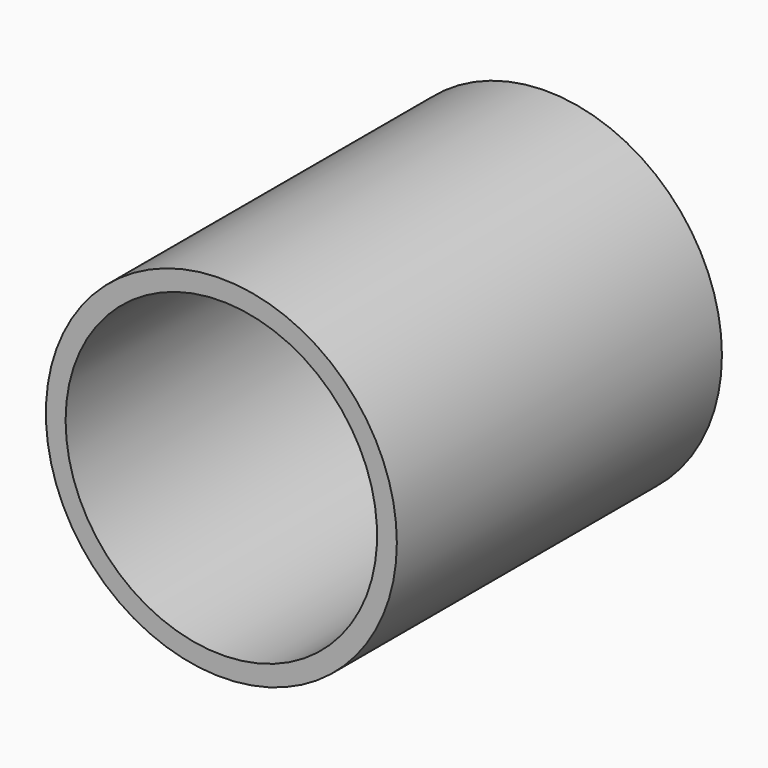
from build123d import *

# Parameters (mm, degrees)
F0_R     = 32.909894
F2_DEPTH = 76.2
F3_D     = 58.42
F4_R     = 30.278142
F5_DEPTH = 6.35


with BuildPart() as f2:
    # F0 (on Front) → F2 (new body)
    with BuildSketch(Plane.XZ):
        Circle(F0_R)
    extrude(amount=F2_DEPTH)

    # F3 (through all)
    with Locations(Plane(origin=(0, 0, 0), x_dir=(1, 0, 0), z_dir=(0, 1, 0))):
        with Locations((0, 0)):
            Hole(F3_D / 2)

    # F4 (on Front) → F5 (join)
    with BuildSketch(Plane.XZ):
        Circle(F4_R)
    extrude(amount=F5_DEPTH)


solid = f2.part
